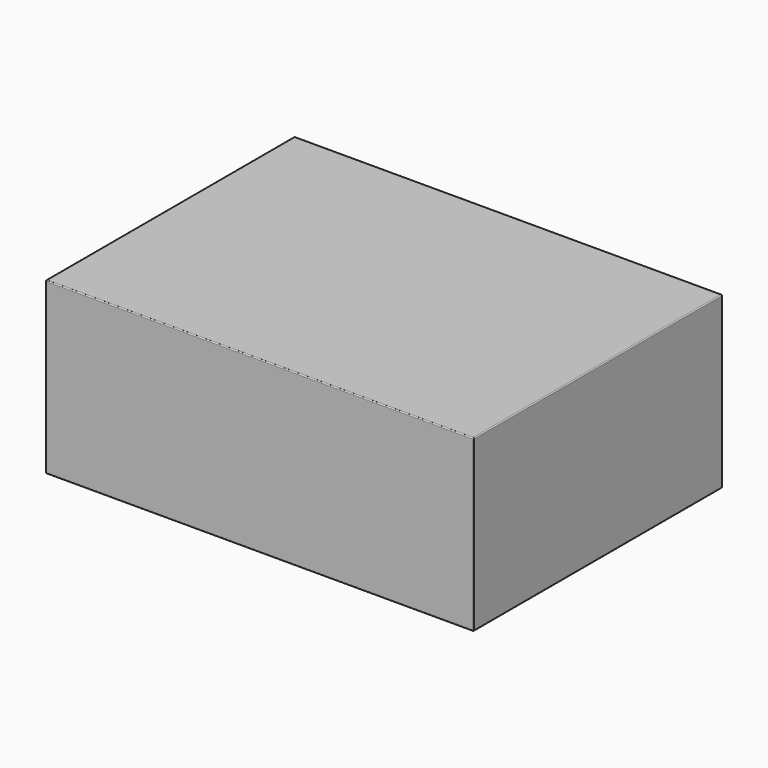
from build123d import *

# Parameters (mm, degrees)
SKETCH_W  = 440
SKETCH_H  = 320
PAD_DEPTH = 175
FILLET_R  = 1


with BuildPart() as part:
    # Sketch → Pad (new body)
    with BuildSketch(Plane.XY):
        with Locations((220, -160)):
            Rectangle(SKETCH_W, SKETCH_H)
    extrude(amount=PAD_DEPTH)

    # Fillet
    fillet_edges = [part.edges().sort_by_distance(p)[0] for p in [
        (0, 0, 87.5),
        (440, 0, 87.5),
        (220, 0, 0),
        (220, 0, 175),
        (440, -320, 87.5),
        (440, -160, 0),
        (440, -160, 175),
        (0, -320, 87.5),
        (220, -320, 0),
        (220, -320, 175),
        (0, -160, 0),
        (0, -160, 175),
    ]]
    fillet(fillet_edges, radius=FILLET_R)


solid = part.part
